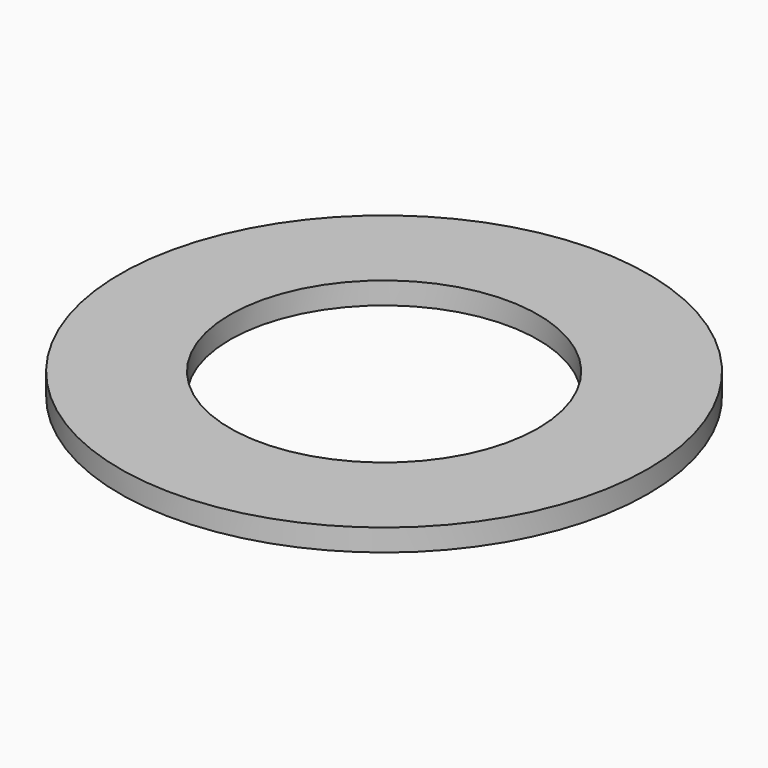
from build123d import *

# Parameters (mm, degrees)
SKETCH_R   = 12
SKETCH_R_2 = 7
PAD_DEPTH  = 1


with BuildPart() as part:
    # Sketch → Pad (new body)
    with BuildSketch(Plane.XY):
        Circle(SKETCH_R)
        Circle(SKETCH_R_2, mode=Mode.SUBTRACT)
    extrude(amount=PAD_DEPTH)


solid = part.part
